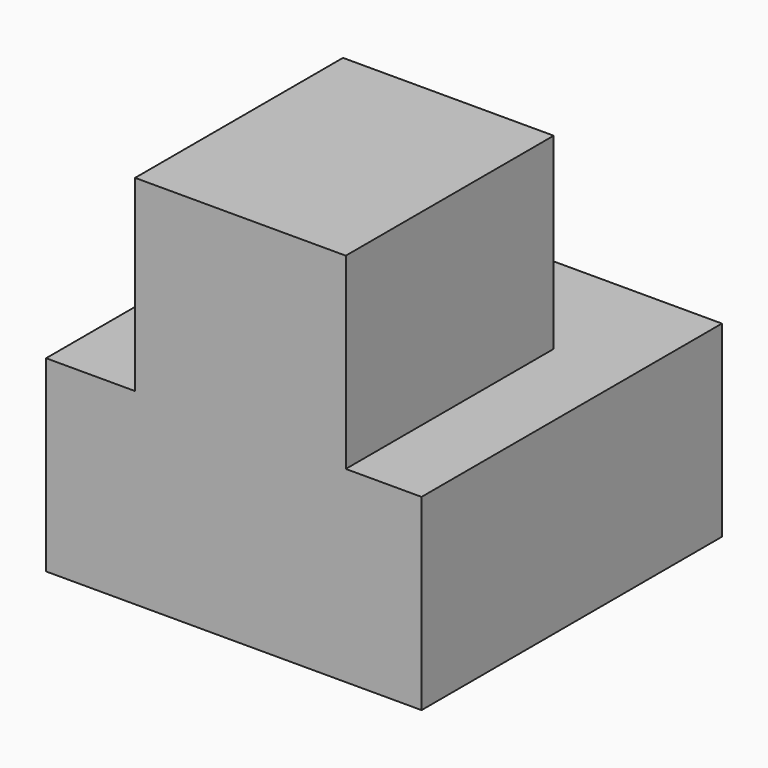
from build123d import *

# Parameters (mm, degrees)
F0_W      = 50
F0_H      = 50
F1_DEPTH  = 25
F2_W      = 28.057508
F2_H      = 20.635585
F3_DEPTH  = 25
F3_FACE_W = 28.057508
F3_FACE_H = 25
F4_DEPTH  = 13.969657


with BuildPart() as f1:
    # F0 (on Top) → F1 (new body)
    with BuildSketch(Plane.XY):
        with Locations((25, 25)):
            Rectangle(F0_W, F0_H)
    extrude(amount=F1_DEPTH)

    # F2 (on face) → F3 (join)
    with BuildSketch(Plane.XY.offset(25)):
        with Locations((25.881764, 24.287449)):
            Rectangle(F2_W, F2_H)
    extrude(amount=F3_DEPTH)

    # F3_face (on face) → F4 (join, through all)
    with BuildSketch(Plane(origin=(25.881764, 13.969657, 37.5), x_dir=(1, 0, 0), z_dir=(0, -1, 0))):
        Rectangle(F3_FACE_W, F3_FACE_H)
    extrude(amount=F4_DEPTH)


solid = f1.part
